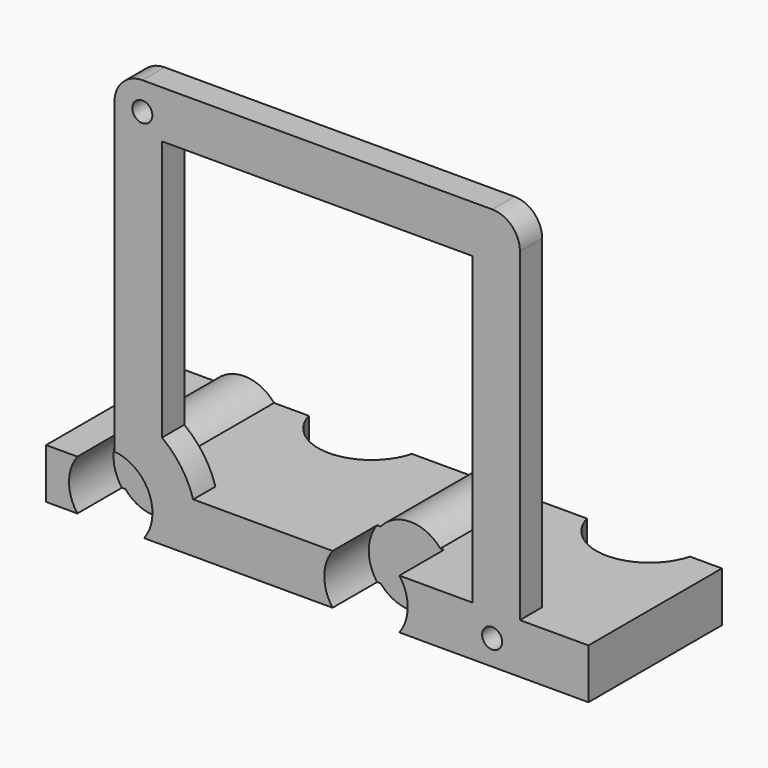
from build123d import *

# Parameters (mm, degrees)
F1_DEPTH  = 5.715
F2_R      = 1.143
F3_DEPTH  = 3.175
F5_R      = 4.445
F6_DEPTH  = 19.05
F4_R      = 3.175
F7_DEPTH  = 19.05
F8_R      = 4.7625
F9_DEPTH  = 6.35
F10_R     = 1.143
F11_DEPTH = 6.35
F13_DEPTH = 3.175
F14_R     = 3.175
F15_DEPTH = 0.396875


with BuildPart() as f1:
    # F0 (on Top) → F1 (new body)
    with BuildSketch(Plane.XY):
        with BuildLine():
            ThreePointArc((-9.989334, -1.5875), (-15.875, -6.096), (-21.760666, -1.5875))
            Line((-21.760666, -1.5875), (-36.5252, -1.5875))
            Line((-36.5252, -1.5875), (-36.5252, -20.6375))
            Line((-36.5252, -20.6375), (25.4, -20.6375))
            Line((25.4, -20.6375), (25.4, -1.5875))
            Line((25.4, -1.5875), (21.760666, -1.5875))
            ThreePointArc((21.760666, -1.5875), (15.875, -6.096), (9.989334, -1.5875))
            Line((9.989334, -1.5875), (-9.989334, -1.5875))
        make_face()
    extrude(amount=F1_DEPTH)

    # F2 (on face) → F3 (join)
    with BuildSketch(Plane.XZ.offset(20.6375)):
        with BuildLine():
            ThreePointArc((-25.53469, 45.96899), (-27.779754, 45.039054), (-28.70969, 42.79399))
            Line((-28.70969, 42.79399), (-28.70969, 5.715))
            Line((-28.70969, 5.715), (-23.289328, 5.715))
            Line((-23.289328, 5.715), (-23.289328, 40.549224))
            Line((-23.289328, 40.549224), (12.156438, 40.549224))
            Line((12.156438, 40.549224), (12.156438, 5.715))
            Line((12.156438, 5.715), (17.5768, 5.715))
            Line((17.5768, 5.715), (17.5768, 42.79399))
            ThreePointArc((17.5768, 42.79399), (16.646864, 45.039054), (14.4018, 45.96899))
            Line((14.4018, 45.96899), (-25.53469, 45.96899))
        make_face()
        with Locations((-25.53469, 42.79399)):
            Circle(F2_R, mode=Mode.SUBTRACT)
        with Locations((14.4018, 2.8575)):
            Circle(F2_R)
    extrude(amount=-F3_DEPTH)

    # F5 (on face) → F6 (join, through all)
    with BuildSketch(Plane.XZ.offset(20.6375)):
        with Locations((-29.142933, 2.8575)):
            Circle(F5_R)
        with Locations((0, 2.8575)):
            Circle(F5_R)
    extrude(amount=-F6_DEPTH)

    # F4 (on face) → F7 (cut, through all)
    with BuildSketch(Plane.XZ.offset(20.6375)):
        with Locations((-29.142933, 2.8575)):
            Circle(F4_R)
        with Locations((0, 2.8575)):
            Circle(F4_R)
    extrude(amount=-F7_DEPTH, mode=Mode.SUBTRACT)

    # F8 (on face) → F9 (cut)
    with BuildSketch(Plane.XZ.offset(20.6375)):
        with Locations((-29.142933, 2.8575)):
            Circle(F8_R)
        with Locations((0, 2.8575)):
            Circle(F8_R)
    extrude(amount=-F9_DEPTH, mode=Mode.SUBTRACT)

    # F10 (on face) → F11 (cut)
    with BuildSketch(Plane.XZ.offset(20.6375)):
        with Locations((14.4018, 2.8575)):
            Circle(F10_R)
    extrude(amount=-F11_DEPTH, mode=Mode.SUBTRACT)

    # F12 (on face) → F13 (join, through all)
    with BuildSketch(Plane.XZ.offset(20.6375)):
        with BuildLine():
            Line((-25.332933, 0), (-19.724361, 0))
            ThreePointArc((-19.724361, 0), (-21.110093, 8.545056), (-28.70969, 12.69046))
            Line((-28.70969, 12.69046), (-28.70969, 7.600253))
            ThreePointArc((-28.70969, 7.600253), (-24.790664, 4.791192), (-25.332933, 0))
        make_face()
    extrude(amount=-F13_DEPTH)

    # F14 (on face) → F15 (join)
    with BuildSketch(Plane.XZ.offset(14.2875)):
        with Locations((0, 2.8575)):
            Circle(F14_R)
        with Locations((-29.142933, 2.8575)):
            Circle(F14_R)
    extrude(amount=-F15_DEPTH)


solid = f1.part
